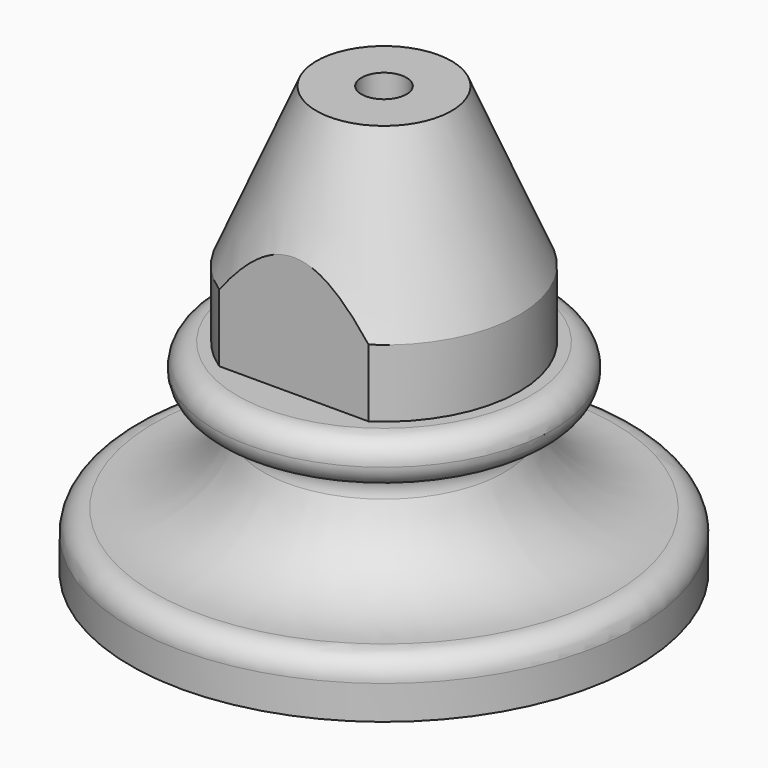
from build123d import *

# Parameters (mm, degrees)
F3_DEPTH = 20


with BuildPart() as f1:
    # F0 (on Right) → F1 (revolve)
    with BuildSketch(Plane.YZ):
        with BuildLine():
            Line((19.5, 0), (22.5, 0))
            Line((22.5, 0), (22.5, 3.002095))
            ThreePointArc((22.5, 3.002095), (21.88148, 4.448301), (20.408487, 5))
            ThreePointArc((20.408487, 5), (14.546021, 6.576022), (10.675388, 11.252618))
            ThreePointArc((10.675388, 11.252618), (10.872972, 13.119204), (12.530495, 14))
            Line((12.530495, 14), (13, 14))
            ThreePointArc((13, 14), (14.414214, 14.585786), (15, 16))
            ThreePointArc((15, 16), (14.414214, 17.414214), (13, 18))
            Line((13, 18), (12, 18))
            Line((12, 18), (12, 24))
            Line((12, 24), (6, 38))
            Line((6, 38), (2, 38))
            Line((2, 38), (2, 20.246301))
            Line((2, 20.246301), (7, 20.246301))
            Line((7, 20.246301), (7, 9.842943))
            ThreePointArc((7, 9.842943), (7.04806, 9.407133), (7.18993, 8.992268))
            ThreePointArc((7.18993, 8.992268), (8.420867, 6.873625), (10, 5.000073))
            ThreePointArc((10, 5.000073), (14.359953, 2.045374), (19.5, 0.896738))
            Line((19.5, 0.896738), (19.5, 0))
        make_face()
    revolve(axis=Axis((0, 0, 19), (0, 0, -1)))

    # F2 (on face) → F3 (cut, through all)
    with BuildSketch(Plane.XY.offset(38)):
        with BuildLine():
            Line((-6.63325, 10), (6.63325, 10))
            ThreePointArc((6.63325, 10), (0, 12), (-6.63325, 10))
        make_face()
        with BuildLine():
            ThreePointArc((-6.63325, -10), (0, -12), (6.63325, -10))
            Line((6.63325, -10), (-6.63325, -10))
        make_face()
    extrude(amount=-F3_DEPTH, mode=Mode.SUBTRACT)


solid = f1.part
